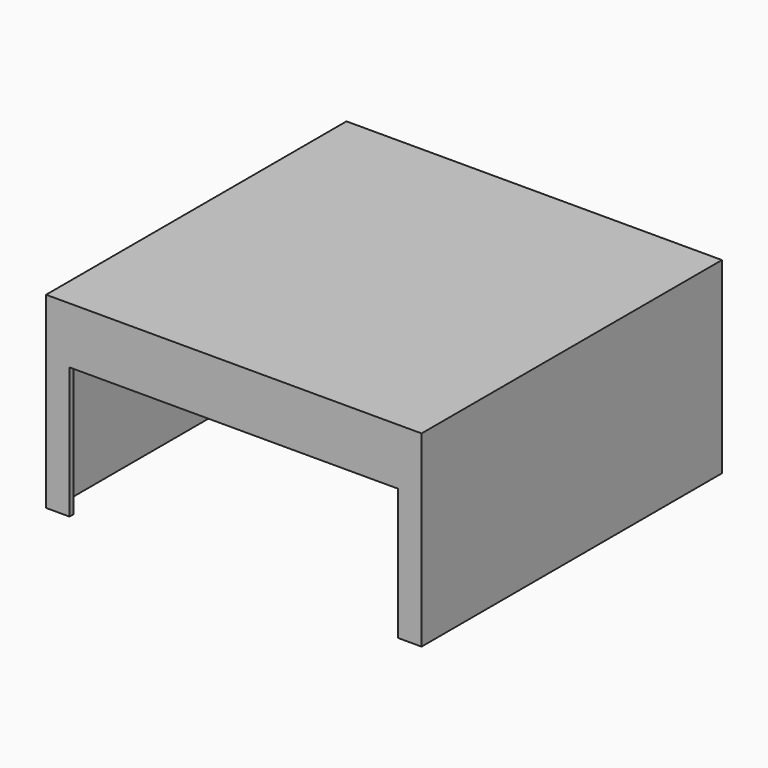
from build123d import *

# Parameters (mm, degrees)
SKETCH_W        = 200
SKETCH_H        = 200
PAD_DEPTH       = 100
SKETCH001_W     = 195
SKETCH001_H     = 195
POCKET_DEPTH    = 98
SKETCH002_W     = 175
SKETCH002_H     = 70
POCKET001_DEPTH = 25


with BuildPart() as part:
    # Sketch → Pad (new body)
    with BuildSketch(Plane.XY):
        Rectangle(SKETCH_W, SKETCH_H)
    extrude(amount=PAD_DEPTH)

    # Sketch001 (on Face5 of Pad) → Pocket (cut)
    with BuildSketch(Plane(origin=(0, 0, 0), x_dir=(1, 0, 0), z_dir=(0, 0, -1))):
        Rectangle(SKETCH001_W, SKETCH001_H)
    extrude(amount=-POCKET_DEPTH, mode=Mode.SUBTRACT)

    # Sketch002 (on Face6 of Pocket) → Pocket001 (cut)
    with BuildSketch(Plane.XZ.offset(100)):
        with Locations((0, 35)):
            Rectangle(SKETCH002_W, SKETCH002_H)
    extrude(amount=-POCKET001_DEPTH, mode=Mode.SUBTRACT)


solid = part.part
